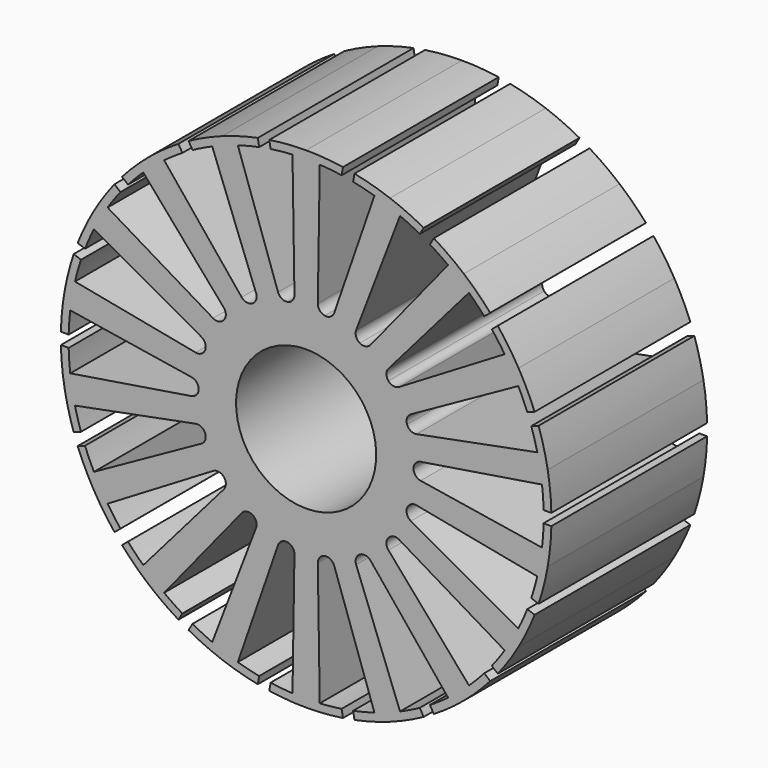
from build123d import *

# Parameters (mm, degrees)
F1_DEPTH = 50
F2_COUNT = 18
F3_DEPTH = 79.2942456901


with BuildPart() as f1:
    # F0 (on Front) → F1 (new body)
    with BuildSketch(Plane.XZ):
        with BuildLine():
            ThreePointArc((-3.125667198, 17.7265395542), (-11.5701769744, -13.7887999761), (18, 0))
            ThreePointArc((18, 0), (13.7887999761, 11.5701769744), (3.125667198, 17.7265395542))
            Line((3.125667198, 17.7265395542), (0, 0))
            Line((0, 0), (-3.125667198, 17.7265395542))
        make_face()
        with BuildLine():
            Line((0, 0), (3.125667198, 17.7265395542))
            ThreePointArc((3.125667198, 17.7265395542), (1.5688033695, 17.9315045657), (0, 18))
            Line((0, 18), (0, 0))
        make_face()
        with BuildLine():
            ThreePointArc((0, 18), (1.5688033695, 17.9315045657), (3.125667198, 17.7265395542))
            Line((3.125667198, 17.7265395542), (4.7899165855, 27.164966849))
            ThreePointArc((4.7899165855, 27.164966849), (3.4957912709, 27.9189743803), (3.0002713556, 29.3323914103))
            Line((3.0002713556, 29.3323914103), (3.5, 60.9000939137))
            ThreePointArc((3.5, 60.9000939137), (6.3128683031, 60.6730511223), (9.1122259083, 60.3161568545))
            Line((9.1122259083, 60.3161568545), (9.4595222636, 62.2857723605))
            ThreePointArc((9.4595222636, 62.2857723605), (4.7432236553, 62.8211893341), (0, 63))
            Line((0, 63), (0, 61))
            Line((0, 61), (0, 18))
        make_face()
        with BuildLine():
            Line((-4.7899165855, 27.164966849), (-3.125667198, 17.7265395542))
            ThreePointArc((-3.125667198, 17.7265395542), (-1.5688033695, 17.9315045657), (0, 18))
            Line((0, 18), (0, 61))
            Line((0, 61), (0, 63))
            ThreePointArc((0, 63), (-4.7432236553, 62.8211893341), (-9.4595222636, 62.2857723605))
            Line((-9.4595222636, 62.2857723605), (-9.1122259083, 60.3161568545))
            ThreePointArc((-9.1122259083, 60.3161568545), (-6.3128683031, 60.6730511223), (-3.5, 60.9000939137))
            Line((-3.5, 60.9000939137), (-3.0002713556, 29.3323914103))
            ThreePointArc((-3.0002713556, 29.3323914103), (-3.4957912709, 27.9189743803), (-4.7899165855, 27.164966849))
        make_face()
        with BuildLine():
            ThreePointArc((0, 18), (-1.5688033695, 17.9315045657), (-3.125667198, 17.7265395542))
            Line((-3.125667198, 17.7265395542), (0, 0))
            Line((0, 0), (0, 18))
        make_face()
    extrude(amount=F1_DEPTH)

    # F2: F1 ×18 about axis
    f2_axis = Axis((0, 0, 0), (0, 1, 0))


with BuildPart() as f1_1:
    add(f1.part)
    for i in range(1, F2_COUNT):
        add(f1.part.rotate(f2_axis, i * 360 / F2_COUNT))

    # F0 (on Front) → F3 (cut)
    with BuildSketch(Plane.XZ):
        with BuildLine():
            ThreePointArc((-3.125667198, 17.7265395542), (-11.5701769744, -13.7887999761), (18, 0))
            ThreePointArc((18, 0), (13.7887999761, 11.5701769744), (3.125667198, 17.7265395542))
            Line((3.125667198, 17.7265395542), (0, 0))
            Line((0, 0), (-3.125667198, 17.7265395542))
        make_face()
        with BuildLine():
            Line((0, 0), (3.125667198, 17.7265395542))
            ThreePointArc((3.125667198, 17.7265395542), (1.5688033695, 17.9315045657), (0, 18))
            Line((0, 18), (0, 0))
        make_face()
        with BuildLine():
            ThreePointArc((0, 18), (-1.5688033695, 17.9315045657), (-3.125667198, 17.7265395542))
            Line((-3.125667198, 17.7265395542), (0, 0))
            Line((0, 0), (0, 18))
        make_face()
    extrude(amount=F3_DEPTH, mode=Mode.SUBTRACT)


solid = f1_1.part
